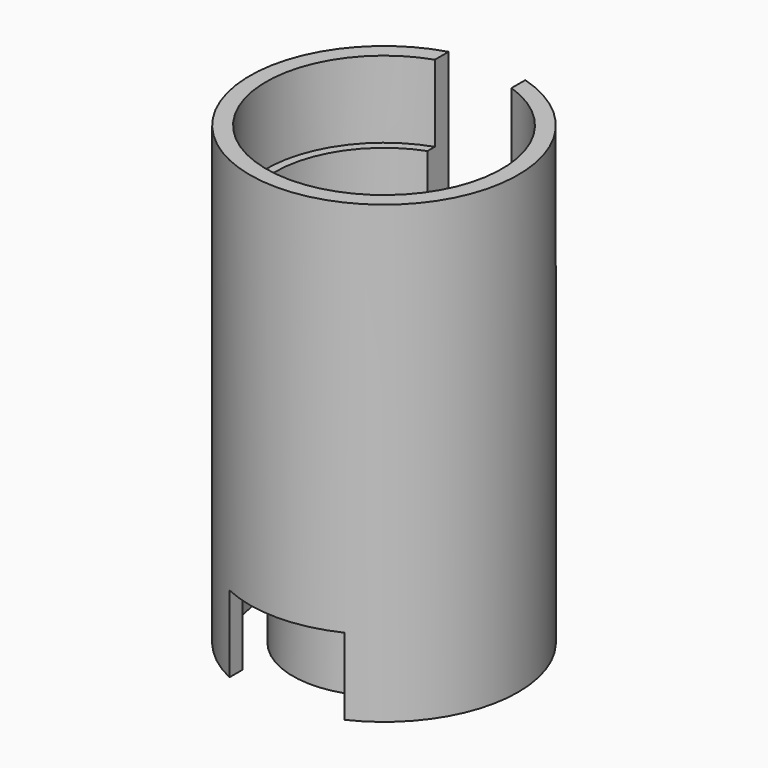
from build123d import *

# Parameters (mm, degrees)
SKETCH004_R      = 9.5
SKETCH004_R_2    = 7.5
PAD003_DEPTH     = 8
SKETCH005_R      = 12.5
SKETCH005_R_2    = 7.5
PAD004_DEPTH     = 2
SKETCH006_R      = 14
SKETCH006_R_2    = 12.5
PAD005_DEPTH     = 10
SKETCH011_W      = 12
SKETCH011_H      = 3.0341439003
POCKET001_DEPTH  = 8
SKETCH007_R      = 14
SKETCH007_R_2    = 5
PAD006_DEPTH     = 18
SKETCH013_R      = 5
FILLET_R         = 4
SKETCH014_R      = 14
PAD007_DEPTH     = 3.5
PAD008_DEPTH     = 8
PAD009_DEPTH     = 8
PAD009_FACE9_R   = 7.5
PAD009_FACE9_R_2 = 5
POCKET003_DEPTH  = 6


with BuildPart() as part:
    # Sketch004 → Pad003 (new body)
    with BuildSketch(Plane.XY):
        Circle(SKETCH004_R)
        Circle(SKETCH004_R_2, mode=Mode.SUBTRACT)
    extrude(amount=-PAD003_DEPTH)

    # Sketch005 (on Face3 of Pad003) → Pad004 (join)
    with BuildSketch(Plane.XY):
        Circle(SKETCH005_R)
        Circle(SKETCH005_R_2, mode=Mode.SUBTRACT)
    extrude(amount=PAD004_DEPTH)

    # Sketch006 (on Face5 of Pad004) → Pad005 (join)
    with BuildSketch(Plane.XY.offset(2)):
        Circle(SKETCH006_R)
        Circle(SKETCH006_R_2, mode=Mode.SUBTRACT)
    extrude(amount=-PAD005_DEPTH)

    # Sketch011 (on Face6 of Pad005) → Pocket001 (cut)
    with BuildSketch(Plane(origin=(0, 0, -8), x_dir=(1, 0, 0), z_dir=(0, 0, -1))):
        with Locations((0, 12.4829280499)):
            Rectangle(SKETCH011_W, SKETCH011_H)
    extrude(amount=-POCKET001_DEPTH, mode=Mode.SUBTRACT)

    # Sketch007 (on Face8 of Pad005) → Pad006 (join)
    with BuildSketch(Plane.XY.offset(2)):
        Circle(SKETCH007_R)
        Circle(SKETCH007_R_2, mode=Mode.SUBTRACT)
    extrude(amount=PAD006_DEPTH)

    # Sketch012 (on Face11 of Pad006) → SubtractiveLoft section 0
    with BuildSketch(Plane.XY.offset(20)):
        with BuildLine():
            Line((-4, 8.8813062549), (4, 8.8813062549))
            ThreePointArc((9.6914368355, -0.9765515123), (7.540123318, 4.3532922273), (4, 8.8813062549))
            Line((5.6914368355, -7.9047547426), (9.6914368355, -0.9765515123))
            ThreePointArc((-5.6914368355, -7.9047547426), (0, -8.7065844547), (5.6914368355, -7.9047547426))
            Line((-9.6914368355, -0.9765515123), (-5.6914368355, -7.9047547426))
            ThreePointArc((-4, 8.8813062549), (-7.540123318, 4.3532922273), (-9.6914368355, -0.9765515123))
        make_face()
    # Sketch013 (on DatumPlane) → SubtractiveLoft section 1
    with BuildSketch(Plane.XY.offset(10)):
        Circle(SKETCH013_R)
    loft(mode=Mode.SUBTRACT)

    # Fillet
    fillet_edges = [part.edges().sort_by_distance(p)[0] for p in [
        (4.306483, -5.981212, 15),
        (-4.306483, -5.981212, 15),
        (-7.333122, -0.738917, 15),
        (-3.02664, 6.720129, 15),
        (3.02664, 6.720129, 15),
        (7.345718, -0.488276, 15),
    ]]
    fillet(fillet_edges, radius=FILLET_R)

    # Sketch014 (on Face1 of Fillet) → Pad007 (join)
    with BuildSketch(Plane.XY.offset(20)):
        Circle(SKETCH014_R)
        with BuildLine():
            ThreePointArc((9.1965098971, 0.705067199), (7.5385410703, 4.3560323781), (5.2046949524, 7.616641166))
            ThreePointArc((5.2046949524, 7.616641166), (3.9464660351, 8.5503778184), (2.4149666018, 8.8813062549))
            Line((-2.4149589436, 8.8813062549), (2.4149666018, 8.8813062549))
            ThreePointArc((-2.4149589436, 8.8813062549), (-3.9472876914, 8.5504731516), (-5.2056336116, 7.6155680875))
            ThreePointArc((-5.2056336116, 7.6155680875), (-7.5401233189, 4.3532922283), (-9.1980922291, 0.7004269053))
            ThreePointArc((-9.1980922291, 0.7004269053), (-9.3781447966, -0.856743367), (-8.8989163073, -2.3492373332))
            Line((-8.8989163073, -2.3492373332), (-6.4839573637, -6.5320689217))
            ThreePointArc((-6.4839573637, -6.5320689217), (-5.4312831179, -7.6936879926), (-3.9924586222, -8.3159949942))
            ThreePointArc((-3.9924586222, -8.3159949942), (6.0874e-06, -8.7065844559), (3.9924705658, -8.3159926296))
            ThreePointArc((3.9924705658, -8.3159926296), (5.4314597421, -7.692636361), (6.4847071392, -6.5307702724))
            Line((8.902535964, -2.3429679038), (6.4847071392, -6.5307702724))
            ThreePointArc((8.902535964, -2.3429679038), (9.3802946809, -0.8508523053), (9.1965098971, 0.705067199))
        make_face(mode=Mode.SUBTRACT)
    extrude(amount=PAD007_DEPTH)

    # Sketch015 (on Face13 of Pad007) → Pad008 (join)
    with BuildSketch(Plane.XY.offset(23.5)):
        with BuildLine():
            ThreePointArc((-4, 13.416407865), (0, -14), (4, 13.416407865))
            Line((4, 13.416407865), (4, 10.6752049161))
            ThreePointArc((-4, 10.6752049161), (0, -11.4), (4, 10.6752049161))
            Line((-4, 13.416407865), (-4, 10.6752049161))
        make_face()
    extrude(amount=PAD008_DEPTH)

    # Sketch016 (on Face13 of Pad008) → Pad009 (join)
    with BuildSketch(Plane.XY.offset(31.5)):
        with BuildLine():
            ThreePointArc((-4, 13.416407865), (0, -14), (4, 13.416407865))
            Line((4, 13.416407865), (4, 11.6314229568))
            ThreePointArc((-4, 11.6314229568), (0, -12.3), (4, 11.6314229568))
            Line((-4, 13.416407865), (-4, 11.6314229568))
        make_face()
    extrude(amount=PAD009_DEPTH)

    # Pad009 Face9 → Pocket003 (cut)
    with BuildSketch(Plane(origin=(0, 0, 2), x_dir=(0, -1, 0), z_dir=(0, 0, -1))):
        Circle(PAD009_FACE9_R)
        Circle(PAD009_FACE9_R_2, mode=Mode.SUBTRACT)
    extrude(amount=-POCKET003_DEPTH, mode=Mode.SUBTRACT)


with BuildPart() as part_1:
    # Body001 placement: moved
    add(part.part.moved(Location((0, 0, 8))))


solid = part_1.part
